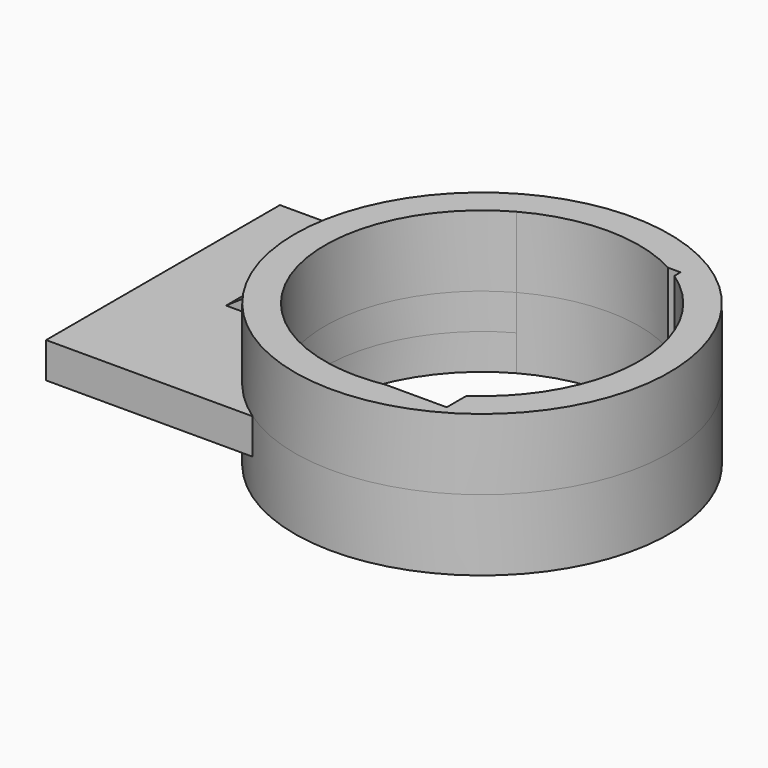
from build123d import *

# Parameters (mm, degrees)
F0_W          = 143.1075930595
F0_H          = 104.4075153768
F1_DEPTH      = 12.7
F3_DEPTH      = 25.4
F3_DEPTH_BACK = 25.4
F4_DEPTH      = 25.4
F6_DEPTH      = 25.4


with BuildPart() as f1:
    # F0 (on Top) → F1 (new body)
    with BuildSketch(Plane.XY):
        with Locations((2.4059638381, -20.6538233906)):
            Rectangle(F0_W, F0_H)
        with Locations((2.4059638381, -20.6538233906)):
            Rectangle(F0_W, F0_H)
    extrude(amount=F1_DEPTH)

    # F2 (on face) → F3 (join, two sides)
    with BuildSketch(Plane.XY.offset(12.7)) as f3_sk:
        with BuildLine():
            Line((15.3577672787, 31.5499342978), (-2.9768298588, 31.5499342978))
            ThreePointArc((-2.9768298588, 31.5499342978), (-24.3292867036, -22.491323871), (4.6469989905, -72.857581079))
            Line((4.6469989905, -72.857581079), (32.5235698655, -72.857581079))
            ThreePointArc((32.5235698655, -72.857581079), (-12.9702679448, -26.7224080826), (15.3577672787, 31.5499342978))
        make_face()
        with BuildLine():
            ThreePointArc((4.6469989905, -72.857581079), (73.6316913936, -76.7914525658), (109.3100037632, -17.6186449826))
            ThreePointArc((109.3100037632, -17.6186449826), (69.2394439219, 43.6714076224), (-2.9768298588, 31.5499342978))
            Line((-2.9768298588, 31.5499342978), (15.3577672787, 31.5499342978))
            ThreePointArc((15.3577672787, 31.5499342978), (42.4015261233, 38.4965408489), (69.4452849679, 31.5499342978))
            Line((69.4452849679, 31.5499342978), (73.9597603679, 31.5499342978))
            Line((73.9597603679, 31.5499342978), (73.9597603679, 28.7816991138))
            ThreePointArc((73.9597603679, 28.7816991138), (91.9989568029, 8.6303350143), (98.5167119547, -17.6186449826))
            ThreePointArc((98.5167119547, -17.6186449826), (91.9989568029, -43.8676249794), (73.9597603679, -64.0189890789))
            Line((73.9597603679, -64.0189890789), (73.9597603679, -72.857581079))
            Line((73.9597603679, -72.857581079), (52.279482381, -72.857581079))
            ThreePointArc((52.279482381, -72.857581079), (42.4015261233, -73.733830814), (32.5235698655, -72.857581079))
            Line((32.5235698655, -72.857581079), (4.6469989905, -72.857581079))
        make_face()
    extrude(amount=F3_DEPTH)
    extrude(f3_sk.sketch, amount=-F3_DEPTH_BACK)

    # F4 (cut): a face of the model
    f4_faces = [f1.faces().sort_by_distance(p)[0] for p in [
        (34.4480932251, -19.6254541978, 12.7),
    ]]
    extrude(f4_faces, amount=-F4_DEPTH, mode=Mode.SUBTRACT)

    # F5 (on Front) → F6 (join)
    with BuildSketch(Plane.XZ):
        Polygon((-24.4303904474, 12.8110842779), (-24.5704315603, 25.2280384302), (-42.8279539842, 12.8110842779), align=None)
    extrude(amount=F6_DEPTH)


solid = f1.part
